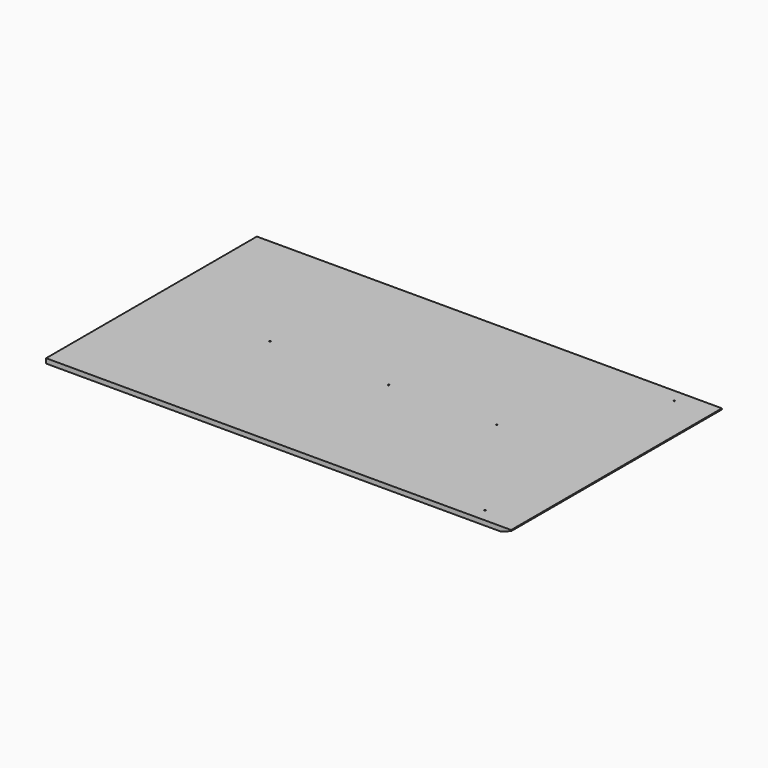
from build123d import *

# Parameters (mm, degrees)
F0_W     = 1765
F0_H     = 1000
F1_DEPTH = 18
F3_DEPTH = 1000.001
F4_R     = 2.5
F5_DEPTH = 25


with BuildPart() as f1:
    # F0 (on Top) → F1 (new body)
    with BuildSketch(Plane.XY):
        with Locations((-692.533048, 457.651515)):
            Rectangle(F0_W, F0_H)
    extrude(amount=F1_DEPTH)

    # F2 (on face) → F3 (cut, through all)
    with BuildSketch(Plane.XZ.offset(42.348485)):
        Polygon((189.966952, 0), (189.966952, 14), (149.966952, 0), align=None)
    extrude(amount=-F3_DEPTH, mode=Mode.SUBTRACT)

    # F4 (on face) → F5 (cut)
    with BuildSketch(Plane(origin=(0, 0, 0), x_dir=(1, 0, 0), z_dir=(0, 0, -1))):
        with Locations((49.966952, -8.651515)):
            Circle(F4_R)
        with Locations((49.966952, -906.651515)):
            Circle(F4_R)
        with Locations((-675.033048, -457.651515)):
            Circle(F4_R)
        with Locations((-265.033048, -457.651515)):
            Circle(F4_R)
        with Locations((-1125.033048, -457.651515)):
            Circle(F4_R)
    extrude(amount=-F5_DEPTH, mode=Mode.SUBTRACT)


solid = f1.part
